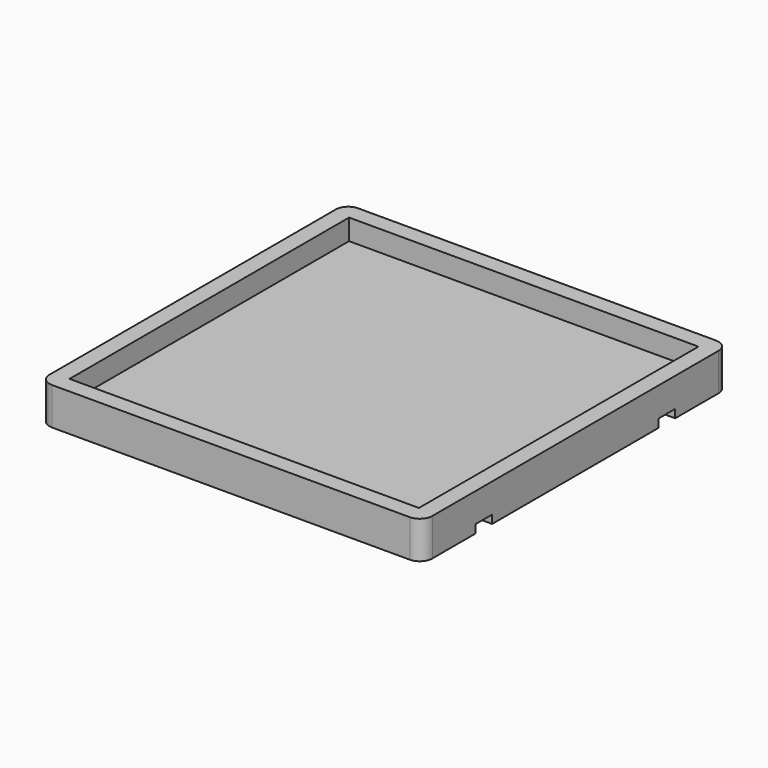
from build123d import *

# Parameters (mm, degrees)
SKETCH_W        = 92
SKETCH_H        = 92
PAD_DEPTH       = 9
SKETCH001_W     = 84
SKETCH001_H     = 84
POCKET_DEPTH    = 5
FILLET_R        = 3
SKETCH002_W     = 92
SKETCH002_H     = 5
POCKET001_DEPTH = 2


with BuildPart() as part:
    # Sketch → Pad (new body)
    with BuildSketch(Plane.XY):
        Rectangle(SKETCH_W, SKETCH_H)
    extrude(amount=PAD_DEPTH)

    # Sketch001 (on Face6 of Pad) → Pocket (cut)
    with BuildSketch(Plane.XY.offset(9)):
        Rectangle(SKETCH001_W, SKETCH001_H)
    extrude(amount=-POCKET_DEPTH, mode=Mode.SUBTRACT)

    # Fillet
    fillet_edges = [part.edges().sort_by_distance(p)[0] for p in [
        (-46, 46, 4.5),
        (-46, -46, 4.5),
        (46, -46, 4.5),
        (46, 46, 4.5),
    ]]
    fillet(fillet_edges, radius=FILLET_R)

    # Sketch002 (on Face2 of Fillet) → Pocket001 (cut)
    with BuildSketch(Plane(origin=(0, 0, 0), x_dir=(1, 0, 0), z_dir=(0, 0, -1))):
        with Locations((0, 27.5)):
            Rectangle(SKETCH002_W, SKETCH002_H)
        with Locations((0, -27.5)):
            Rectangle(SKETCH002_W, SKETCH002_H)
    extrude(amount=-POCKET001_DEPTH, mode=Mode.SUBTRACT)


solid = part.part
